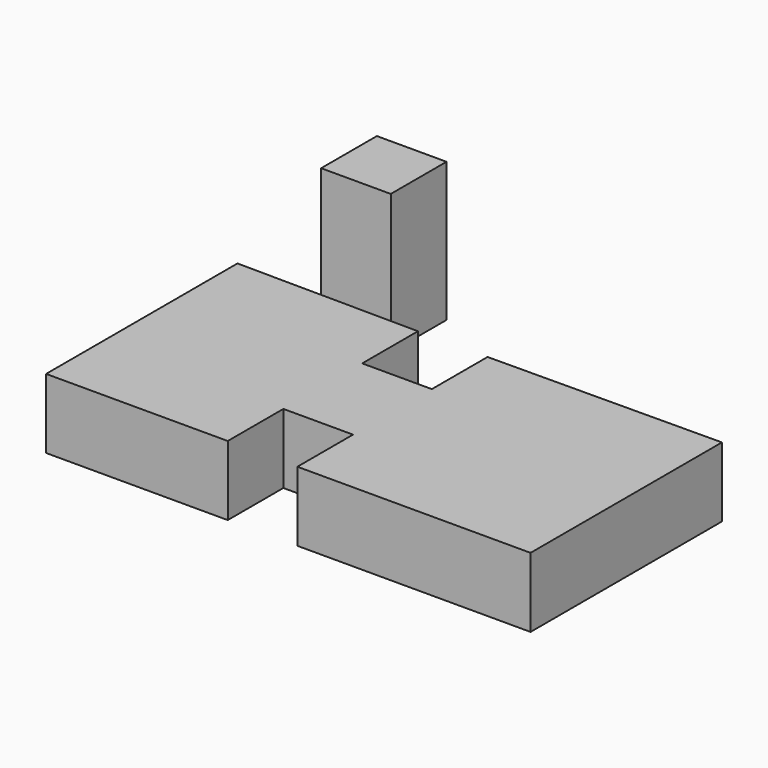
from build123d import *

# Parameters (mm, degrees)
F0_W     = 12.7
F0_H     = 12.7
F1_DEPTH = 25.4
F3_DEPTH = 12.7


with BuildPart() as f1:
    # F0 (on Top) → F1 (new body)
    with BuildSketch(Plane.XY):
        with Locations((-33.280453, 13.397114)):
            Rectangle(F0_W, F0_H)
    extrude(amount=F1_DEPTH)


with BuildPart() as f3:
    # F2 (on Top) → F3 (new body)
    with BuildSketch(Plane.XY):
        Polygon((-45.830428, -4.278217), (-45.830428, -47.903526), (-12.7, -47.903526), (-12.7, -35.225279), (0, -35.225279), (0, -47.903526), (42.517385, -47.903526), (42.517385, -4.278217), (0, -4.555366), (0, -17.255366), (-12.7, -17.255366), (-12.7, -4.555366), align=None)
    extrude(amount=F3_DEPTH)


solid = Compound([f1.part, f3.part])
